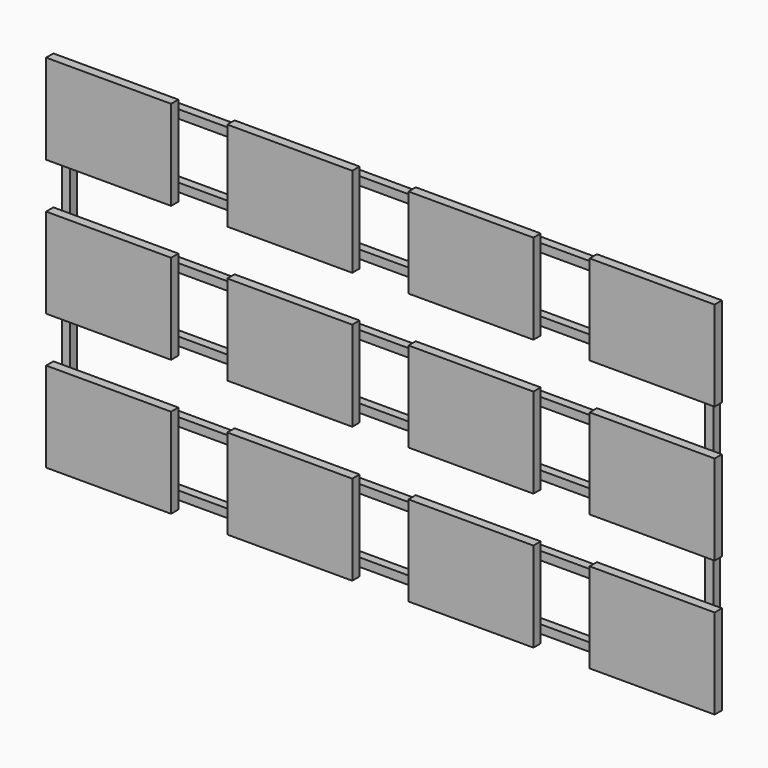
from build123d import *

# Parameters (mm, degrees)
F0_W     = 928
F0_H     = 490
F0_W_2   = 904
F0_H_2   = 80
F0_H_3   = 89
F1_DEPTH = 12
F2_W     = 178
F2_H     = 128
F3_DEPTH = 13


with BuildPart() as f1:
    # F0 (on Front) → F1 (new body)
    with BuildSketch(Plane.XZ):
        with Locations((476, -257)):
            Rectangle(F0_W, F0_H)
        with Locations((476, -450)):
            Rectangle(F0_W_2, F0_H_2, mode=Mode.SUBTRACT)
        with Locations((476, -353.5)):
            Rectangle(F0_W_2, F0_H_3, mode=Mode.SUBTRACT)
        with Locations((476, -257)):
            Rectangle(F0_W_2, F0_H_2, mode=Mode.SUBTRACT)
        with Locations((476, -160.5)):
            Rectangle(F0_W_2, F0_H_3, mode=Mode.SUBTRACT)
        with Locations((476, -64)):
            Rectangle(F0_W_2, F0_H_2, mode=Mode.SUBTRACT)
    extrude(amount=-F1_DEPTH)


with BuildPart() as f3:
    # F2 (on Front) → F3 (new body)
    with BuildSketch(Plane.XZ):
        with Locations((89, -64)):
            Rectangle(F2_W, F2_H)
        with Locations((347, -64)):
            Rectangle(F2_W, F2_H)
        with Locations((605, -64)):
            Rectangle(F2_W, F2_H)
        with Locations((863, -64)):
            Rectangle(F2_W, F2_H)
        with Locations((89, -257)):
            Rectangle(F2_W, F2_H)
        with Locations((347, -257)):
            Rectangle(F2_W, F2_H)
        with Locations((605, -257)):
            Rectangle(F2_W, F2_H)
        with Locations((863, -257)):
            Rectangle(F2_W, F2_H)
        with Locations((89, -450)):
            Rectangle(F2_W, F2_H)
        with Locations((347, -450)):
            Rectangle(F2_W, F2_H)
        with Locations((605, -450)):
            Rectangle(F2_W, F2_H)
        with Locations((863, -450)):
            Rectangle(F2_W, F2_H)
    extrude(amount=F3_DEPTH)


solid = Compound([f1.part, f3.part])
